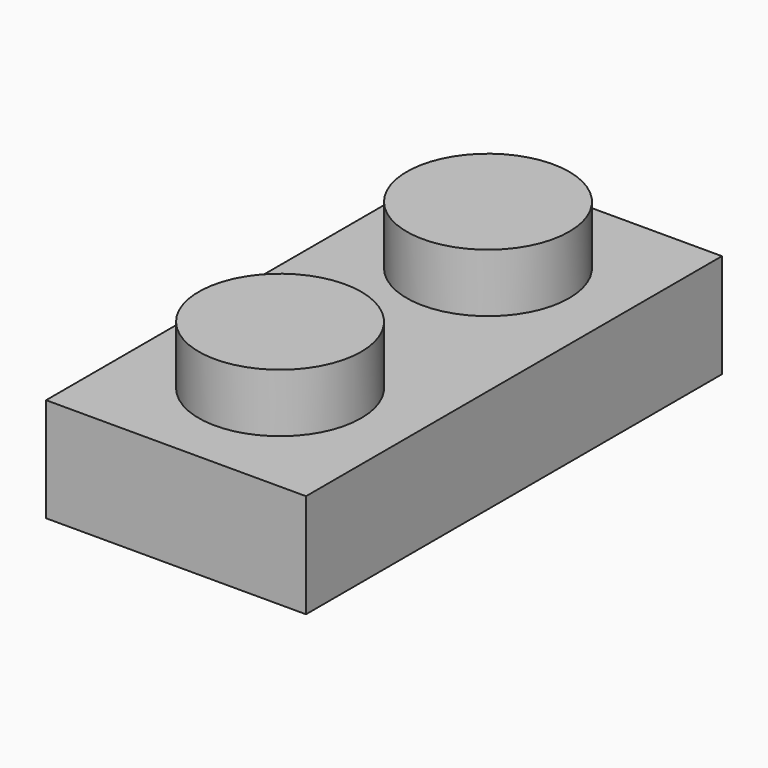
from build123d import *

# Parameters (mm, degrees)
F0_W     = 8
F0_H     = 16
F0_W_2   = 4.4
F0_H_2   = 12.4
F1_DEPTH = 2
F2_W     = 8
F2_H     = 16
F3_DEPTH = 1.2
F4_R     = 2.5
F5_DEPTH = 1.8
F7_DEPTH = 2
F8_R     = 1.25
F9_DEPTH = 1.5


with BuildPart() as f1:
    # F0 (on Top) → F1 (new body)
    with BuildSketch(Plane.XY):
        with Locations((1.777131, -13.520962)):
            Rectangle(F0_W, F0_H)
        with Locations((1.777131, -13.520962)):
            Rectangle(F0_W_2, F0_H_2, mode=Mode.SUBTRACT)
    extrude(amount=F1_DEPTH)

    # F2 (on face) → F3 (join)
    with BuildSketch(Plane.XY.offset(2)):
        with Locations((1.777131, -13.520962)):
            Rectangle(F2_W, F2_H)
    extrude(amount=F3_DEPTH)

    # F4 (on face) → F5 (join)
    with BuildSketch(Plane.XY.offset(3.2)):
        with Locations((1.777131, -9.520962)):
            Circle(F4_R)
        with Locations((1.777131, -17.520962)):
            Circle(F4_R)
    extrude(amount=F5_DEPTH)

    # F6 (on face) → F7 (join)
    with BuildSketch(Plane(origin=(0, 0, 2), x_dir=(1, 0, 0), z_dir=(0, 0, -1))):
        with BuildLine():
            ThreePointArc((1.027131, 13.520962), (1.777131, 14.270962), (2.527131, 13.520962))
            Line((2.527131, 13.520962), (3.277131, 13.520962))
            ThreePointArc((3.277131, 13.520962), (1.777131, 15.020962), (0.277131, 13.520962))
            Line((0.277131, 13.520962), (1.027131, 13.520962))
        make_face()
        with BuildLine():
            Line((3.277131, 13.520962), (2.527131, 13.520962))
            ThreePointArc((2.527131, 13.520962), (1.777131, 12.770962), (1.027131, 13.520962))
            Line((1.027131, 13.520962), (0.277131, 13.520962))
            ThreePointArc((0.277131, 13.520962), (1.777131, 12.020962), (3.277131, 13.520962))
        make_face()
    extrude(amount=F7_DEPTH)

    # F8 (on face) → F9 (cut)
    with BuildSketch(Plane(origin=(0, 0, 2), x_dir=(1, 0, 0), z_dir=(0, 0, -1))):
        with Locations((1.777131, 17.370962)):
            Circle(F8_R)
        with Locations((1.777131, 9.670962)):
            Circle(F8_R)
    extrude(amount=-F9_DEPTH, mode=Mode.SUBTRACT)


solid = f1.part
